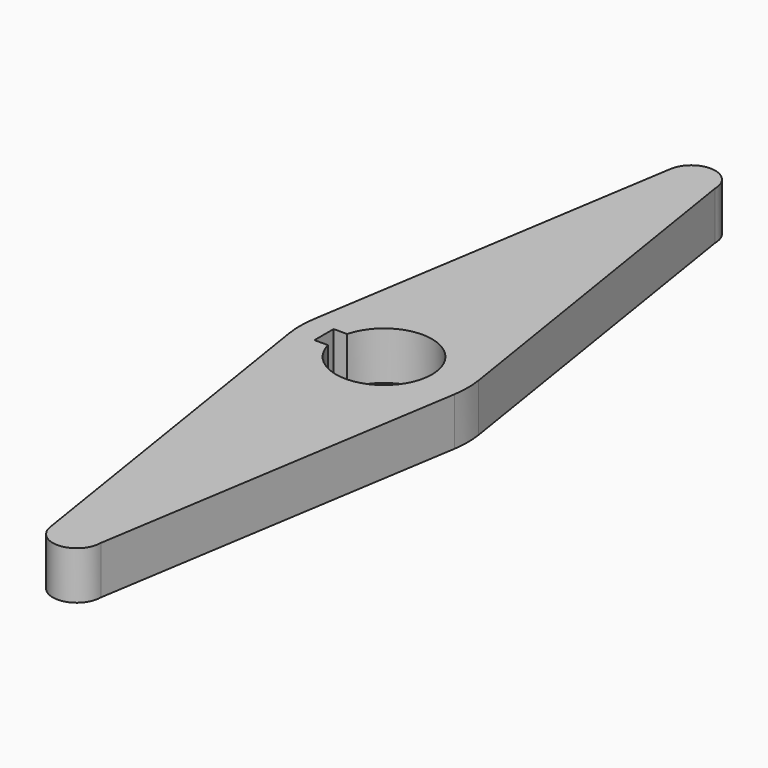
from build123d import *

# Parameters (mm, degrees)
F1_DEPTH = 6.35
F2_R     = 12.7


with BuildPart() as f1:
    # F0 (on Top) → F1 (new body)
    with BuildSketch(Plane.XY):
        with BuildLine():
            ThreePointArc((10.9746446845, -1.744944211), (11.0779825624, -0.875190606), (11.1125, 0))
            ThreePointArc((11.1125, 0), (11.0779825682, 0.8751905326), (10.9746447076, 1.7449440655))
            ThreePointArc((10.9746447076, 1.7449440655), (-0.0043616995, 11.112499144), (-10.9760111207, 1.7363283471))
            ThreePointArc((-10.9760111207, 1.7363283471), (-11.1125, 6.19e-08), (-10.97601114, -1.7363282248))
            ThreePointArc((-10.97601114, -1.7363282248), (-0.004361835, -11.112499144), (10.9746446845, -1.744944211))
        make_face()
        with BuildLine():
            ThreePointArc((-6.1483610621, 1.5875), (6.35, 0), (-6.1483610621, -1.5875))
            Line((-6.1483610621, -1.5875), (-7.9365210621, -1.5875))
            Line((-7.9365210621, -1.5875), (-7.9365210621, 1.5875))
            Line((-7.9365210621, 1.5875), (-6.1483610621, 1.5875))
        make_face(mode=Mode.SUBTRACT)
        with BuildLine():
            ThreePointArc((10.9746447076, 1.7449440655), (11.0779825682, 0.8751905326), (11.1125, 0))
            ThreePointArc((11.1125, 0), (11.0779825624, -0.875190606), (10.9746446845, -1.744944211))
            Line((10.9746446845, -1.744944211), (11.2520869302, 0))
            Line((11.2520869302, 0), (10.9746447076, 1.7449440655))
        make_face()
        with BuildLine():
            ThreePointArc((-10.9760111207, 1.7363283471), (-0.0043616995, 11.112499144), (10.9746447076, 1.7449440655))
            Line((10.9746447076, 1.7449440655), (3.175, 50.8))
            ThreePointArc((3.175, 50.8), (-0.2488120577, 47.6347642173), (-3.1360031874, 51.29609375))
            Line((-3.1360031874, 51.29609375), (-10.9760111207, 1.7363283471))
        make_face()
        with BuildLine():
            Line((3.175, -50.8), (10.9746446845, -1.744944211))
            ThreePointArc((10.9746446845, -1.744944211), (-0.004361835, -11.112499144), (-10.97601114, -1.7363282248))
            Line((-10.97601114, -1.7363282248), (-3.1360031874, -51.29609375))
            ThreePointArc((-3.1360031874, -51.29609375), (-0.2488120577, -47.6347642173), (3.175, -50.8))
        make_face()
        with BuildLine():
            ThreePointArc((-10.97601114, -1.7363282248), (-11.1125, 6.19e-08), (-10.9760111207, 1.7363283471))
            Line((-10.9760111207, 1.7363283471), (-11.2506861097, 0))
            Line((-11.2506861097, 0), (-10.97601114, -1.7363282248))
        make_face()
        with BuildLine():
            ThreePointArc((-3.1360031874, 51.29609375), (-0.2488120577, 47.6347642173), (3.175, 50.8))
            ThreePointArc((3.175, 50.8), (0.2488120577, 53.9652357827), (-3.1360031874, 51.29609375))
        make_face()
        with BuildLine():
            ThreePointArc((-3.1360031874, -51.29609375), (0.2488120577, -53.9652357827), (3.175, -50.8))
            ThreePointArc((3.175, -50.8), (-0.2488120577, -47.6347642173), (-3.1360031874, -51.29609375))
        make_face()
    extrude(amount=F1_DEPTH)

    # F2
    f2_edges = [f1.edges().sort_by_distance(p)[0] for p in [
        (-11.250686, 0, 3.175),
        (11.252087, 0, 3.175),
    ]]
    fillet(f2_edges, radius=F2_R)


solid = f1.part
